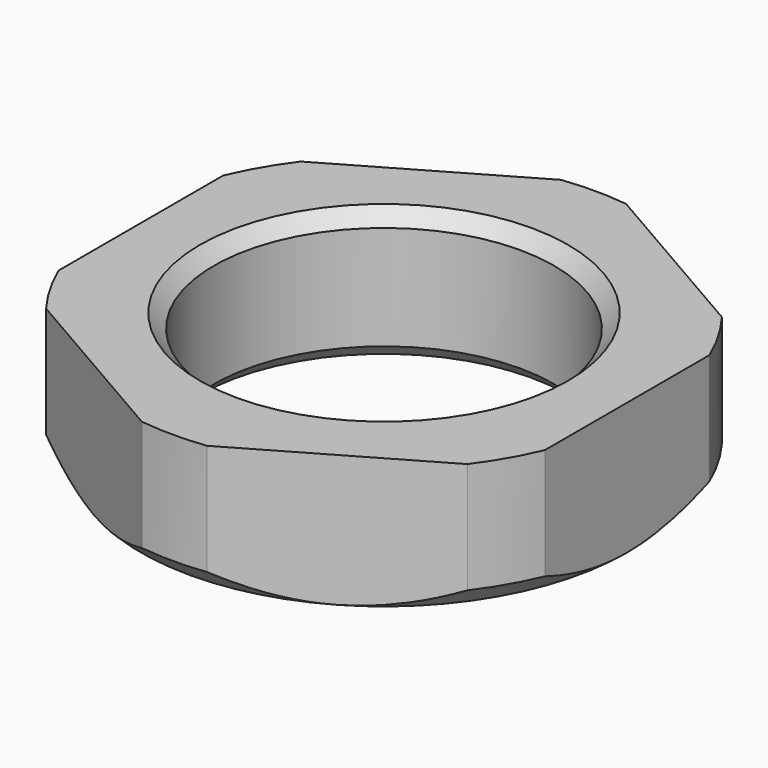
from build123d import *

# Parameters (mm, degrees)
SKETCH005_R     = 15.040905
POCKET002_DEPTH = 4.751
CHAMFER_SIZE    = 0.5


with BuildPart() as part:
    # Sketch004 → Revolution002 (revolve)
    with BuildSketch(Plane.YZ):
        Polygon((6.125, 0), (6.125, -4.75), (8.75, -4.75), (9.5, -4), (9.5, 0), align=None)
    revolve(axis=Axis((0, 0, 0), (0, 0, 1)))

    # Sketch005 (on Face2 of Revolution002) → Pocket002 (cut, through all)
    with BuildSketch(Plane.YX.offset(4.75)):
        Circle(SKETCH005_R)
        Polygon((10.10363, 0), (5.051815, 8.75), (-5.051815, 8.75), (-10.10363, 0), (-5.051815, -8.75), (5.051815, -8.75), align=None, mode=Mode.SUBTRACT)
    extrude(amount=-POCKET002_DEPTH, mode=Mode.SUBTRACT)

    # Chamfer
    chamfer_edges = [part.edges().sort_by_distance(p)[0] for p in [
        (0, -6.125, -4.75),
        (0, -6.125, 0),
    ]]
    chamfer(chamfer_edges, length=CHAMFER_SIZE)


with BuildPart() as part_1:
    # Body002 placement: moved
    add(part.part.moved(Location((0, 0, -2.9))))


solid = part_1.part
